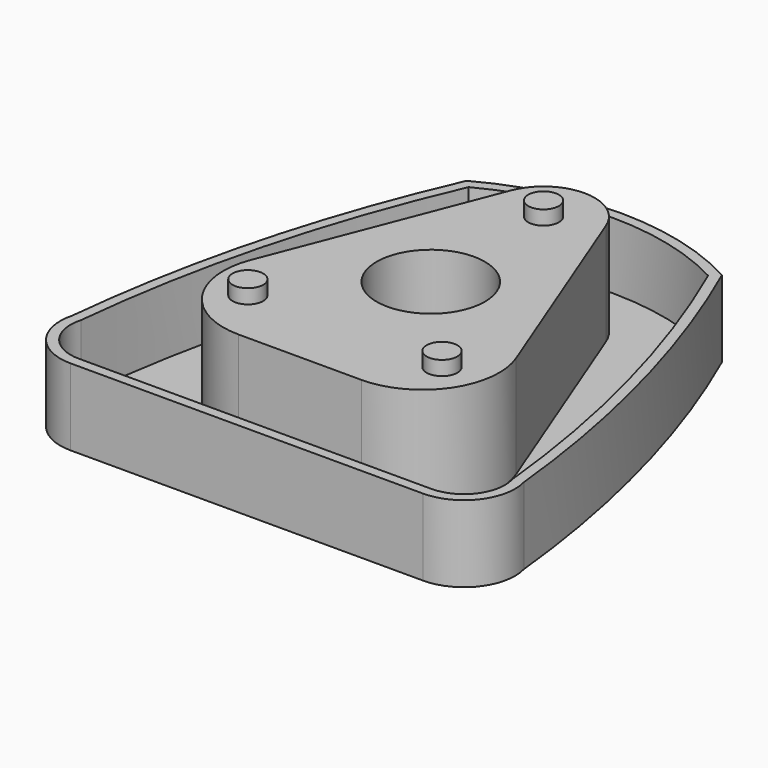
from build123d import *

# Parameters (mm, degrees)
F1_DEPTH = 9.525
F2_T     = -1.27
F4_DEPTH = 12.7
F5_R     = 1.905
F6_DEPTH = 1.778
F5_R_2   = 6.731
F7_DEPTH = 13.971


with BuildPart() as f1:
    # F0 (on Top) → F1 (new body)
    with BuildSketch(Plane.XY):
        with BuildLine():
            ThreePointArc((-28.0514923582, 7.974917758), (-26.9448485688, 2.4767408919), (-21.9129141613, 0))
            Line((-21.9129141613, 0), (21.9129141613, 0))
            ThreePointArc((21.9129141613, 0), (26.9448485688, 2.4767408919), (28.0514923582, 7.974917758))
            ThreePointArc((28.0514923582, 7.974917758), (23.7696669498, 31.453129083), (15.875, 53.975))
            ThreePointArc((15.875, 53.975), (0, 58.0415066874), (-15.875, 53.975))
            ThreePointArc((-15.875, 53.975), (-23.7696669498, 31.453129083), (-28.0514923582, 7.974917758))
        make_face()
    extrude(amount=F1_DEPTH)

    # F2
    f2_openings = [f1.faces().sort_by_distance(p)[0] for p in [
        (0, 25.796964, 9.525),
    ]]
    offset(amount=F2_T, openings=f2_openings, kind=Kind.INTERSECTION)

    # F3 (on face) → F4 (join)
    with BuildSketch(Plane.XY.offset(1.27)):
        with BuildLine():
            Line((16.4958264334, 21.2362016904), (5.9172176222, 48.402988853))
            ThreePointArc((5.9172176222, 48.402988853), (0, 52.4488543928), (-5.9172176222, 48.402988853))
            Line((-5.9172176222, 48.402988853), (-16.4958263497, 21.2362019052))
            ThreePointArc((-16.4958263497, 21.2362019052), (-15.4827586809, 12.4038814256), (-7.62, 8.255))
            Line((-7.62, 8.255), (7.62, 8.255))
            ThreePointArc((7.62, 8.255), (15.4827586158, 12.4038813304), (16.4958264334, 21.2362016904))
        make_face()
    extrude(amount=F4_DEPTH)

    # F5 (on face) → F6 (join)
    with BuildSketch(Plane.XY.offset(13.97)):
        with Locations((0, 46.0988543928)):
            Circle(F5_R)
        with Locations((-12.065, 15.24)):
            Circle(F5_R)
        with Locations((12.065, 15.24)):
            Circle(F5_R)
    extrude(amount=F6_DEPTH)

    # F5 (on face) → F7 (cut, through all)
    with BuildSketch(Plane.XY.offset(13.97)):
        with Locations((0, 28.575)):
            Circle(F5_R_2)
    extrude(amount=-F7_DEPTH, mode=Mode.SUBTRACT)


solid = f1.part
